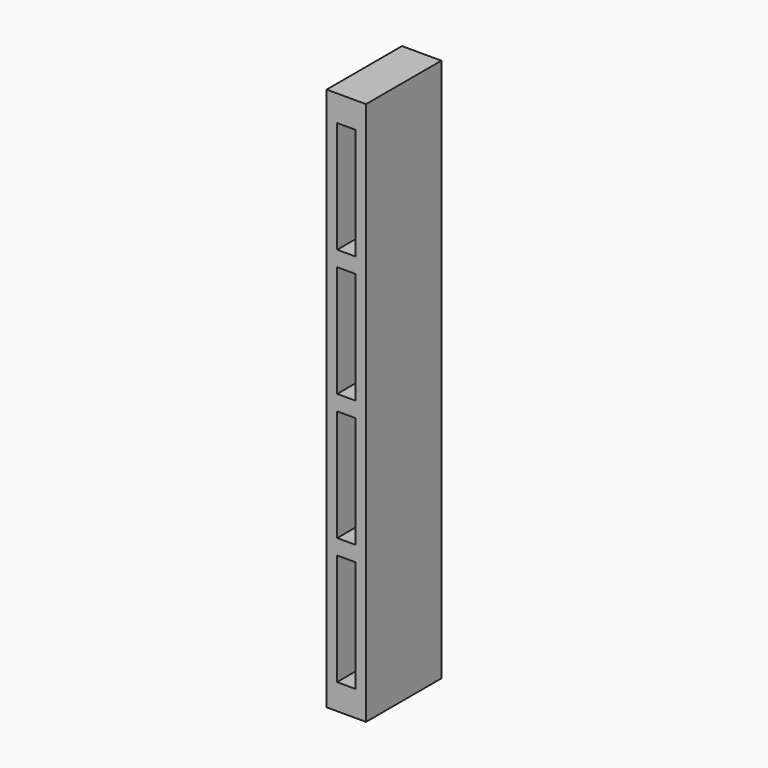
from build123d import *

# Parameters (mm, degrees)
F0_W     = 10
F0_H     = 138
F0_W_2   = 4.659399
F0_H_2   = 28.3
F0_W_3   = 4.6
F1_DEPTH = 11.95
F2_DEPTH = 9


with BuildPart() as f1:
    # F0 (on Front) → F1 (new body)
    with BuildSketch(Plane.XZ):
        with Locations((-25.254509, -12.323071)):
            Rectangle(F0_W, F0_H)
        with Locations((-25.291808, -60.673071)):
            Rectangle(F0_W_2, F0_H_2, mode=Mode.SUBTRACT)
        Polygon((-27.562109, -41.183438), (-27.562109, -14.323071), (-22.962109, -14.323071), (-22.962109, -42.623071), (-27.562109, -42.623071), align=None, mode=Mode.SUBTRACT)
        with Locations((-25.262109, 3.726929)):
            Rectangle(F0_W_3, F0_H_2, mode=Mode.SUBTRACT)
        with Locations((-25.262109, 35.926929)):
            Rectangle(F0_W_3, F0_H_2, mode=Mode.SUBTRACT)
        with Locations((-25.262109, 35.926929)):
            Rectangle(F0_W_3, F0_H_2)
        with Locations((-25.262109, 3.726929)):
            Rectangle(F0_W_3, F0_H_2)
        Polygon((-22.962109, -14.323071), (-27.562109, -14.323071), (-27.562109, -41.183438), (-27.562109, -42.623071), (-22.962109, -42.623071), align=None)
        with Locations((-25.291808, -60.673071)):
            Rectangle(F0_W_2, F0_H_2)
    extrude(amount=F1_DEPTH)

    # F0 (on Front) → F2 (cut)
    with BuildSketch(Plane.XZ):
        with Locations((-25.262109, 35.926929)):
            Rectangle(F0_W_3, F0_H_2)
        with Locations((-25.262109, 3.726929)):
            Rectangle(F0_W_3, F0_H_2)
        Polygon((-22.962109, -14.323071), (-27.562109, -14.323071), (-27.562109, -41.183438), (-27.562109, -42.623071), (-22.962109, -42.623071), align=None)
        with Locations((-25.291808, -60.673071)):
            Rectangle(F0_W_2, F0_H_2)
    extrude(amount=F2_DEPTH, mode=Mode.SUBTRACT)

    # F3: F1 across face


with BuildPart() as f1_1:
    add(f1.part)
    add(f1.part.mirror(Plane(origin=(-25.254509, -11.95, -12.323071), x_dir=(1, 0, 0), z_dir=(0, -1, 0))))


solid = f1_1.part
